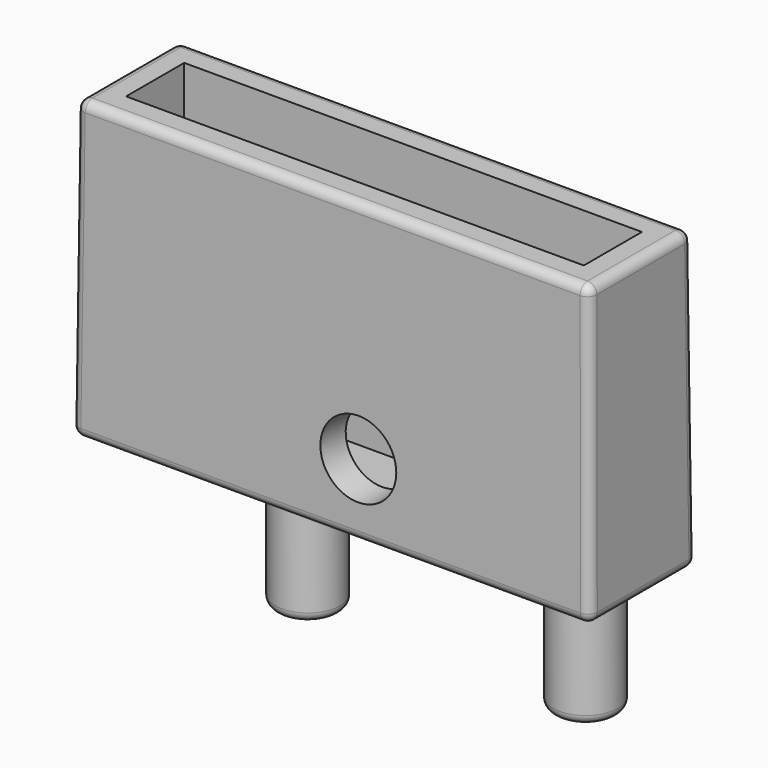
from build123d import *

# Parameters (mm, degrees)
F0_W      = 28
F0_H      = 7.2
F1_DEPTH  = 16
F1_TAPER  = 0.5
F3_R      = 1.75
F4_DEPTH  = 7
F5_R      = 1.75
F6_DEPTH  = 1.6
F6_TAPER  = 18
F7_R      = 1.75
F8_DEPTH  = 1.7
F8_TAPER  = 18
F2_W      = 24.7207402307
F2_H      = 3.9207402307
F9_DEPTH  = 14.5
F10_W     = 24.3207402307
F10_H     = 0.8
F11_DEPTH = 11.66
F12_R     = 1.15
F13_DEPTH = 1
F14_R     = 0.5
F15_R     = 2.05
F16_DEPTH = 1.8
F16_TAPER = 3


with BuildPart() as f1:
    # F0 (on Top) → F1 (new body)
    with BuildSketch(Plane.XY):
        with Locations((3, 2.4)):
            Rectangle(F0_W, F0_H)
    extrude(amount=F1_DEPTH, taper=F1_TAPER)

    # F3 (on face) → F4 (join)
    with BuildSketch(Plane(origin=(0, 0, 0), x_dir=(1, 0, 0), z_dir=(0, 0, -1))):
        with Locations((13, -3.5)):
            Circle(F3_R)
        with Locations((-2, -3.5)):
            Circle(F3_R)
    extrude(amount=F4_DEPTH)

    # F5 (on face) → F6 (cut)
    with BuildSketch(Plane(origin=(0, 5.9995430855, 0.0523572193), x_dir=(-1, 0, 0), z_dir=(0, 0.9999619231, 0.0087265355))):
        with Locations((-6.7264116369, 22.8813774884)):
            Circle(F5_R)
    extrude(amount=-F6_DEPTH, taper=F6_TAPER, mode=Mode.SUBTRACT)

    # F7 (on face) → F8 (cut)
    with BuildSketch(Plane(origin=(0, 5.9995430855, 0.0523572193), x_dir=(-1, 0, 0), z_dir=(0, 0.9999619231, 0.0087265355))):
        with Locations((-9.4124490789, 9.947640787)):
            Circle(F7_R)
        with Locations((-4.4124490789, 9.947640787)):
            Circle(F7_R)
    extrude(amount=-F8_DEPTH, taper=F8_TAPER, mode=Mode.SUBTRACT)

    # F2 (on face) → F9 (cut)
    with BuildSketch(Plane.XY.offset(16)):
        with Locations((3, 2.4)):
            Rectangle(F2_W, F2_H)
    extrude(amount=-F9_DEPTH, mode=Mode.SUBTRACT)

    # F14
    f14_edges = [f1.edges().sort_by_distance(p)[0] for p in [
        (3, 5.86037, 16),
        (-10.86037, 2.4, 16),
        (-10.930185, 5.930185, 8),
        (3, 6, 0),
        (16.930185, 5.930185, 8),
        (-10.930185, -1.130185, 8),
        (-11, 2.4, 0),
        (3, -1.2, 0),
        (3, -1.06037, 16),
        (16.930185, -1.130185, 8),
        (16.86037, 2.4, 16),
        (17, 2.4, 0),
        (-3.75, 3.5, -7),
        (11.25, 3.5, -7),
    ]]
    fillet(f14_edges, radius=F14_R)

    # F15 (on face) → F16 (cut)
    with BuildSketch(Plane(origin=(0, -1.1999086171, 0.0104714439), x_dir=(1, 0, 0), z_dir=(0, -0.9999619231, 0.0087265355))):
        with Locations((4.4654902328, 3.893929669)):
            Circle(F15_R)
    extrude(amount=-F16_DEPTH, taper=F16_TAPER, mode=Mode.SUBTRACT)


with BuildPart() as f11:
    # F10 (on face) → F11 (new body)
    with BuildSketch(Plane.XY.offset(1.5)):
        with Locations((3, 3.8603701153)):
            Rectangle(F10_W, F10_H)
    extrude(amount=F11_DEPTH)

    # F12 (on face) → F13 (cut)
    with BuildSketch(Plane(origin=(0, 4.2603701153, 0), x_dir=(-1, 0, 0), z_dir=(0, 1, 0))):
        with Locations((-9.4124490789, 9.9896040143)):
            Circle(F12_R)
        with Locations((-4.4124490789, 10)):
            Circle(F12_R)
    extrude(amount=-F13_DEPTH, mode=Mode.SUBTRACT)


solid = Compound([f1.part, f11.part])
